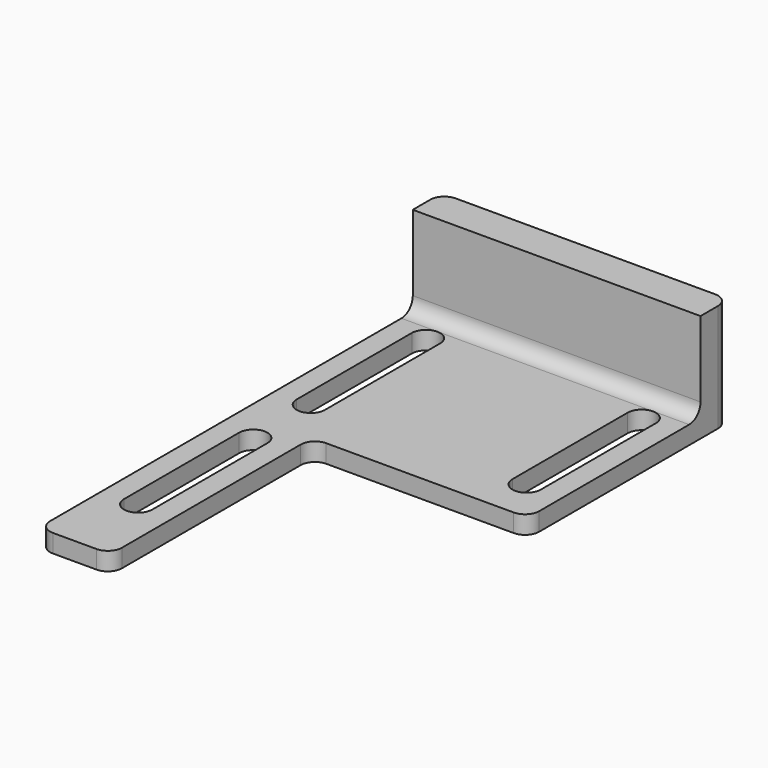
from build123d import *

# Parameters (mm, degrees)
F0_W     = 101.6
F0_H     = 12.7
F1_DEPTH = 6.4
F2_DEPTH = 31.7
F3_DEPTH = 6.4
F4_R     = 5


with BuildPart() as f1:
    # F0 (on Top) → F1 (new body)
    with BuildSketch(Plane.XY):
        Polygon((-25.4, -88.9), (50.8, -88.9), (50.8, -10.749764), (50.8, 0), (-25.4, 0), align=None)
        with BuildLine():
            ThreePointArc((33.332847, -10.749764), (38.332847, -5.749764), (43.332847, -10.749764))
            Line((43.332847, -10.749764), (43.332847, -61.549764))
            ThreePointArc((43.332847, -61.549764), (38.332847, -66.549764), (33.332847, -61.549764))
            Line((33.332847, -61.549764), (33.332847, -10.749764))
        make_face(mode=Mode.SUBTRACT)
        Polygon((-50.8, -88.9), (-25.4, -88.9), (-25.4, 0), (50.8, 0), (50.8, 76.2), (-50.8, 76.2), (-50.8, -10.067825), align=None)
        with BuildLine():
            Line((-43.099635, -60.867813), (-43.099635, -10.067825))
            ThreePointArc((-43.099635, -10.067825), (-38.08229, -5.067855), (-33.099755, -10.102513))
            Line((-33.099755, -10.102513), (-33.099635, -60.867813))
            ThreePointArc((-33.099635, -60.867813), (-38.099635, -65.867813), (-43.099635, -60.867813))
        make_face(mode=Mode.SUBTRACT)
        with BuildLine():
            Line((-33.099635, 66.132175), (-33.099635, 15.332175))
            ThreePointArc((-33.099635, 15.332175), (-38.099635, 10.332175), (-43.099635, 15.332175))
            Line((-43.099635, 15.332175), (-43.099635, 66.132175))
            ThreePointArc((-43.099635, 66.132175), (-38.099635, 71.132175), (-33.099635, 66.132175))
        make_face(mode=Mode.SUBTRACT)
        with BuildLine():
            Line((43.100365, 66.132175), (43.100365, 15.332175))
            ThreePointArc((43.100365, 15.332175), (38.100365, 10.332175), (33.100365, 15.332175))
            Line((33.100365, 15.332175), (33.100365, 66.132175))
            ThreePointArc((33.100365, 66.132175), (38.100365, 71.132175), (43.100365, 66.132175))
        make_face(mode=Mode.SUBTRACT)
        with Locations((0, 82.55)):
            Rectangle(F0_W, F0_H)
    extrude(amount=-F1_DEPTH)

    # F0 (on Top) → F2 (join)
    with BuildSketch(Plane.XY):
        with Locations((0, 82.55)):
            Rectangle(F0_W, F0_H)
    extrude(amount=F2_DEPTH)

    # F0 (on Top) → F3 (cut)
    with BuildSketch(Plane.XY):
        Polygon((-25.4, -88.9), (50.8, -88.9), (50.8, -10.749764), (50.8, 0), (-25.4, 0), align=None)
        with BuildLine():
            ThreePointArc((33.332847, -10.749764), (38.332847, -5.749764), (43.332847, -10.749764))
            Line((43.332847, -10.749764), (43.332847, -61.549764))
            ThreePointArc((43.332847, -61.549764), (38.332847, -66.549764), (33.332847, -61.549764))
            Line((33.332847, -61.549764), (33.332847, -10.749764))
        make_face(mode=Mode.SUBTRACT)
    extrude(amount=-F3_DEPTH, mode=Mode.SUBTRACT)

    # F4
    f4_edges = [f1.edges().sort_by_distance(p)[0] for p in [
        (0, 76.2, 0),
        (50.8, 88.9, 12.65),
        (-50.8, 88.9, 12.65),
        (50.8, 0, -3.2),
        (-25.4, 0, -3.2),
        (-25.4, -88.9, -3.2),
        (-50.8, -88.9, -3.2),
    ]]
    fillet(f4_edges, radius=F4_R)


solid = f1.part
